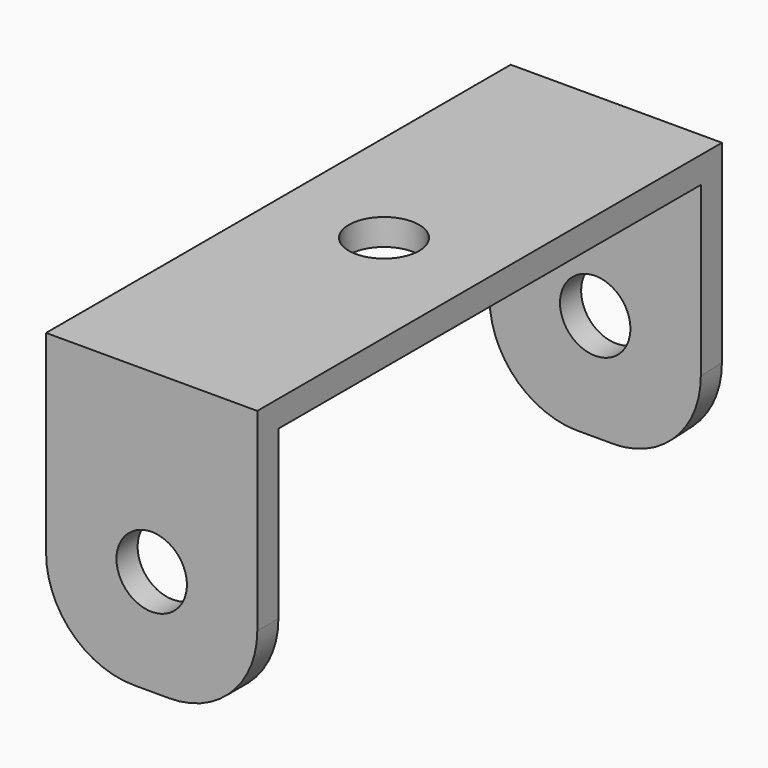
from build123d import *

# Parameters (mm, degrees)
F1_DEPTH = 12
F2_R     = 2
F3_DEPTH = 25
F4_R     = 2
F5_DEPTH = 45
F6_R     = 5


with BuildPart() as f1:
    # F0 (on Right) → F1 (new body)
    with BuildSketch(Plane.YZ):
        Polygon((33, 0), (0, 0), (0, -16), (1.5, -16), (1.5, -1.5), (31.5, -1.5), (31.5, -16.072011), (33, -16), align=None)
    extrude(amount=F1_DEPTH)

    # F2 (on face) → F3 (cut)
    with BuildSketch(Plane.XY):
        with Locations((6, 16.5)):
            Circle(F2_R)
    extrude(amount=-F3_DEPTH, mode=Mode.SUBTRACT)

    # F4 (on face) → F5 (cut)
    with BuildSketch(Plane(origin=(0, 33, 0), x_dir=(-1, 0, 0), z_dir=(0, 1, 0))):
        with Locations((-6, -10)):
            Circle(F4_R)
    extrude(amount=-F5_DEPTH, mode=Mode.SUBTRACT)

    # F6
    f6_edges = [f1.edges().sort_by_distance(p)[0] for p in [
        (0, 32.25, -16.036005),
        (12, 32.25, -16.036005),
        (12, 0.75, -16),
        (0, 0.75, -16),
    ]]
    fillet(f6_edges, radius=F6_R)


solid = f1.part
